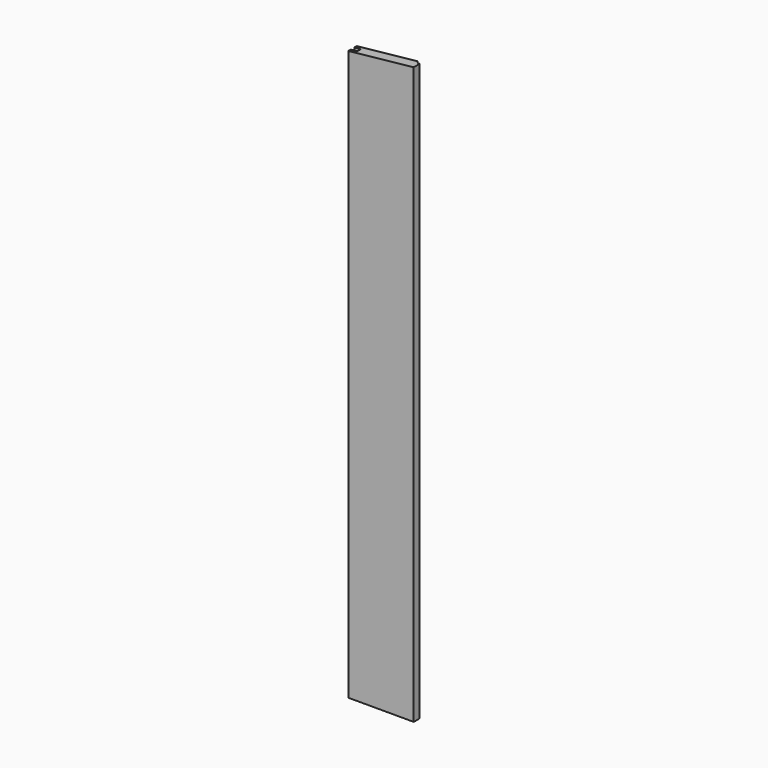
from build123d import *

# Parameters (mm, degrees)
F1_DEPTH = 1100
F3_DEPTH = 19.001
F4_W     = 27
F4_H     = 5.5
F4_W_2   = 10
F5_DEPTH = 1051.4265870314


with BuildPart() as f1:
    # F0 (on Top) → F1 (new body)
    with BuildSketch(Plane.XY):
        Polygon((0, -4), (0, -9.5), (136, -9.5), (136, -4), (146, -4), (146, 4), (116, 4), (110.5, 9.5), (0, 9.5), (0, 4), (12, 4), (12, -4), align=None)
    extrude(amount=F1_DEPTH)

    # F2 (on face) → F3 (cut, through all)
    with BuildSketch(Plane(origin=(0, 9.5, 0), x_dir=(-1, 0, 0), z_dir=(0, 1, 0))):
        Polygon((-110.5, 1100), (-608.1546681334, 1100), (-110.5, 1047.6943866794), align=None)
        Polygon((0, 1100), (0, 1036.0803686826), (819, 950), (819, 1100), align=None)
        Polygon((-110.5, 1100), (-110.5, 1047.6943866794), (0, 1036.0803686826), (0, 1100), align=None)
    extrude(amount=-F3_DEPTH, mode=Mode.SUBTRACT)

    # F4 (on face) → F5 (cut, through all)
    with BuildSketch(Plane(origin=(0, 0, 0), x_dir=(1, 0, 0), z_dir=(0, 0, -1))):
        with Locations((132.5, -6.75)):
            Rectangle(F4_W, F4_H)
        Polygon((136, 9.5), (119, 9.5), (119, -4), (146, -4), (146, 4), (136, 4), align=None)
        with Locations((141, 6.75)):
            Rectangle(F4_W_2, F4_H)
    extrude(amount=-F5_DEPTH, mode=Mode.SUBTRACT)


solid = f1.part
